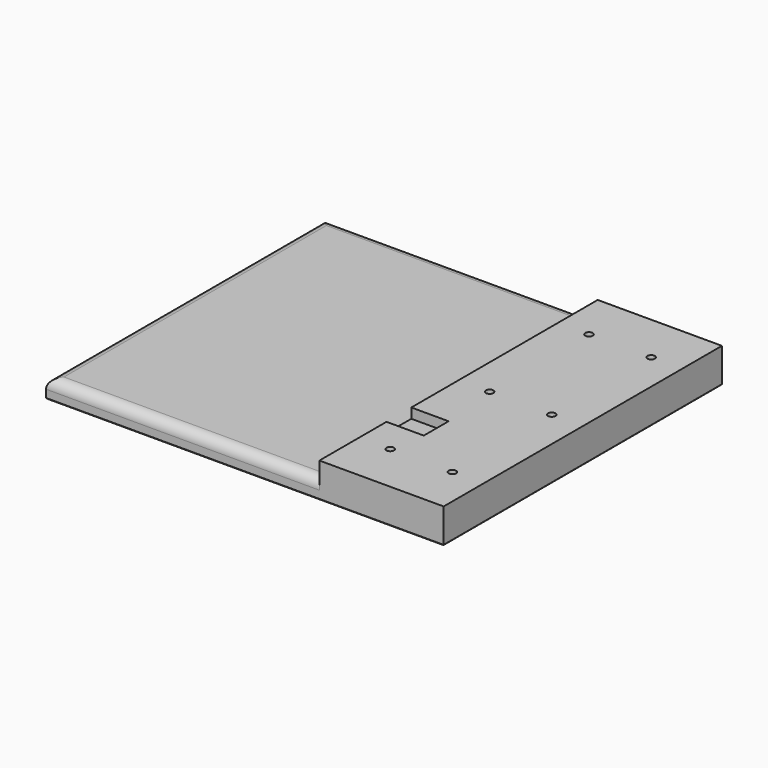
from build123d import *

# Parameters (mm, degrees)
F0_W     = 139.7
F0_H     = 177.8
F1_DEPTH = 9.525
F0_W_2   = 63.5
F0_R     = 1.905
F2_DEPTH = 17.78
F3_SIZE  = 2.54
F4_SIZE  = 0.508
F5_R     = 5.08
F6_W     = 19.05
F6_H     = 15.875
F7_DEPTH = 5.08


with BuildPart() as f1:
    # F0 (on Top) → F1 (new body)
    with BuildSketch(Plane.XY):
        with Locations((-31.75, 0)):
            Rectangle(F0_W, F0_H)
    extrude(amount=F1_DEPTH)

    # F0 (on Top) → F2 (join)
    with BuildSketch(Plane.XY):
        with Locations((69.85, 0)):
            Rectangle(F0_W_2, F0_H)
        with Locations((53.975, -63.5)):
            Circle(F0_R, mode=Mode.SUBTRACT)
        with Locations((85.725, -63.5)):
            Circle(F0_R, mode=Mode.SUBTRACT)
        with Locations((53.975, 0)):
            Circle(F0_R, mode=Mode.SUBTRACT)
        with Locations((85.725, 0)):
            Circle(F0_R, mode=Mode.SUBTRACT)
        with Locations((53.975, 63.5)):
            Circle(F0_R, mode=Mode.SUBTRACT)
        with Locations((85.725, 63.5)):
            Circle(F0_R, mode=Mode.SUBTRACT)
    extrude(amount=F2_DEPTH)

    # F3
    f3_edges = [f1.edges().sort_by_distance(p)[0] for p in [
        (52.07, -63.5, 0),
        (83.82, -63.5, 0),
        (52.07, 0, 0),
        (83.82, 0, 0),
        (52.07, 63.5, 0),
        (83.82, 63.5, 0),
    ]]
    chamfer(f3_edges, length=F3_SIZE)

    # F4
    f4_edges = [f1.edges().sort_by_distance(p)[0] for p in [
        (0, -88.9, 0),
        (101.6, 0, 0),
        (0, 88.9, 0),
        (-101.6, 0, 0),
    ]]
    chamfer(f4_edges, length=F4_SIZE)

    # F5
    f5_edges = [f1.edges().sort_by_distance(p)[0] for p in [
        (-31.75, -88.9, 9.525),
        (-101.6, 0, 9.525),
        (-31.75, 88.9, 9.525),
    ]]
    fillet(f5_edges, radius=F5_R)

    # F6 (on face) → F7 (cut)
    with BuildSketch(Plane.XY.offset(17.78)):
        with Locations((47.625, -38.1)):
            Rectangle(F6_W, F6_H)
    extrude(amount=-F7_DEPTH, mode=Mode.SUBTRACT)


solid = f1.part
